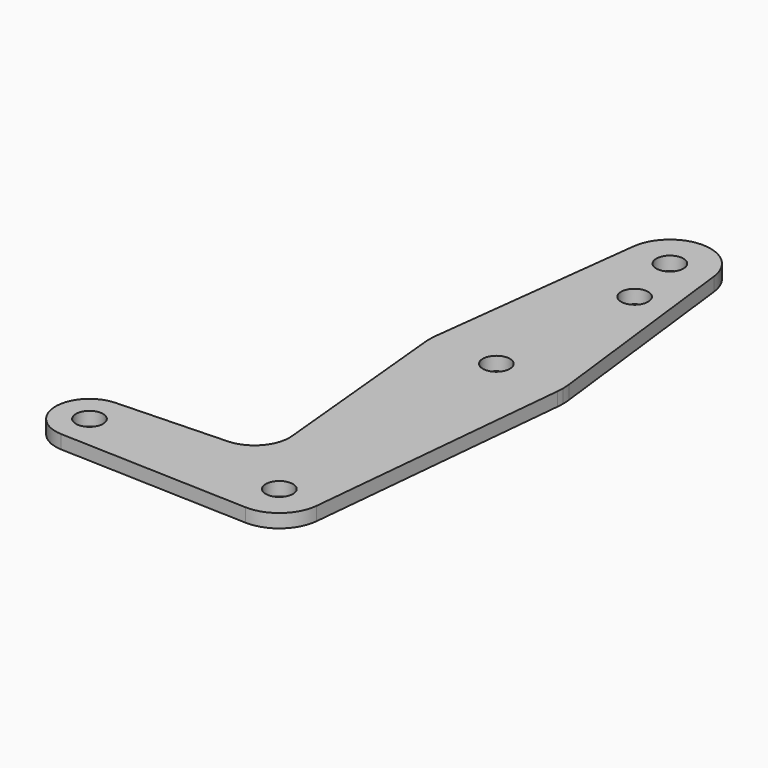
from build123d import *

# Parameters (mm, degrees)
F0_R     = 3.175
F1_DEPTH = 3.175


with BuildPart() as f1:
    # F0 (on Top) → F1 (new body)
    with BuildSketch(Plane.XY):
        with BuildLine():
            ThreePointArc((9.481007, -0.9144), (9.513995, -0.457729), (9.525, 0))
            ThreePointArc((9.525, 0), (6.613827, 6.854408), (-0.340179, 9.518923))
            ThreePointArc((-0.340179, 9.518923), (-9.525, 0), (-0.340179, -9.518923))
            ThreePointArc((-0.340179, -9.518923), (6.276794, -7.16432), (9.481007, -0.9144))
        make_face()
        Circle(F0_R, mode=Mode.SUBTRACT)
        with BuildLine():
            ThreePointArc((-0.340179, 9.518923), (6.613827, 6.854408), (9.525, 0))
            ThreePointArc((9.525, 0), (9.513995, -0.457729), (9.481007, -0.9144))
            Line((9.481007, -0.9144), (15.548852, 62.000384))
            ThreePointArc((15.548852, 62.000384), (0, 47.879), (-15.548852, 62.000384))
            Line((-15.548852, 62.000384), (-11.287798, 17.819412))
            ThreePointArc((-11.287798, 17.819412), (-13.280149, 11.634986), (-19.148911, 8.846754))
            Line((-19.148911, 8.846754), (-44.733482, 7.932436))
            ThreePointArc((-44.733482, 7.932436), (-38.938477, 5.712007), (-36.5125, 0))
            ThreePointArc((-36.5125, 0), (-38.938477, -5.712007), (-44.733482, -7.932436))
            Line((-44.733482, -7.932436), (-0.340179, -9.518923))
            ThreePointArc((-0.340179, -9.518923), (-9.525, 0), (-0.340179, 9.518923))
        make_face()
        with BuildLine():
            ThreePointArc((-15.548852, 62.000384), (0, 47.879), (15.548852, 62.000384))
            ThreePointArc((15.548852, 62.000384), (15.602953, 62.749325), (15.621, 63.5))
            ThreePointArc((15.621, 63.5), (15.592755, 64.438958), (15.508121, 65.37452))
            ThreePointArc((15.508121, 65.37452), (0, 79.121), (-15.508121, 65.37452))
            ThreePointArc((-15.508121, 65.37452), (-15.619862, 63.688555), (-15.548852, 62.000384))
        make_face()
        with Locations((0, 63.5)):
            Circle(F0_R, mode=Mode.SUBTRACT)
        with BuildLine():
            ThreePointArc((-44.733482, 7.932436), (-52.3875, 0), (-44.733482, -7.932436))
            ThreePointArc((-44.733482, -7.932436), (-38.938477, -5.712007), (-36.5125, 0))
            ThreePointArc((-36.5125, 0), (-38.938477, 5.712007), (-44.733482, 7.932436))
        make_face()
        with Locations((-44.45, 0)):
            Circle(F0_R, mode=Mode.SUBTRACT)
        with BuildLine():
            ThreePointArc((-15.508121, 65.37452), (0, 79.121), (15.508121, 65.37452))
            Line((15.508121, 65.37452), (9.456171, 115.443))
            ThreePointArc((9.456171, 115.443), (9.507777, 114.872535), (9.525, 114.3))
            ThreePointArc((9.525, 114.3), (-0.572535, 104.792223), (-9.456171, 115.443))
            Line((-9.456171, 115.443), (-15.508121, 65.37452))
        make_face()
        with Locations((3.175, 100.0125)):
            Circle(F0_R, mode=Mode.SUBTRACT)
        with BuildLine():
            ThreePointArc((9.525, 114.3), (9.507777, 114.872535), (9.456171, 115.443))
            ThreePointArc((9.456171, 115.443), (0, 123.825), (-9.456171, 115.443))
            ThreePointArc((-9.456171, 115.443), (-0.572535, 104.792223), (9.525, 114.3))
        make_face()
        with Locations((0, 114.3)):
            Circle(F0_R, mode=Mode.SUBTRACT)
    extrude(amount=F1_DEPTH)


solid = f1.part
